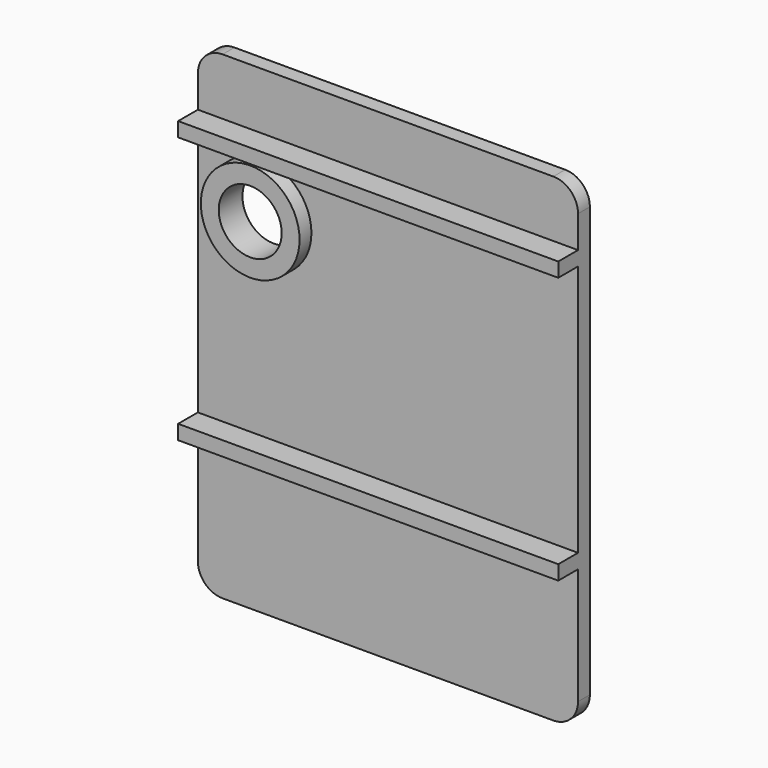
from build123d import *

# Parameters (mm, degrees)
F0_W     = 77
F0_H     = 97
F0_R     = 6.375
F1_DEPTH = 3
F2_R     = 10
F2_R_2   = 6.375
F3_DEPTH = 3
F4_W     = 77
F4_H     = 2.929018
F5_DEPTH = 5
F6_R     = 5


with BuildPart() as f1:
    # F0 (on Front) → F1 (new body)
    with BuildSketch(Plane.XZ):
        Rectangle(F0_W, F0_H)
        with Locations((-25.5, 22.5)):
            Circle(F0_R, mode=Mode.SUBTRACT)
    extrude(amount=-F1_DEPTH)

    # F2 (on face) → F3 (join)
    with BuildSketch(Plane.XZ):
        with Locations((-25.5, 22.5)):
            Circle(F2_R)
        with Locations((-25.5, 22.5)):
            Circle(F2_R_2, mode=Mode.SUBTRACT)
    extrude(amount=F3_DEPTH)

    # F4 (on face) → F5 (join)
    with BuildSketch(Plane.XZ):
        Polygon((-38.5, 37.005685), (-38.5, 35.700995), (-38.5, 34.099021), (38.5, 34.099021), (38.5, 35.700995), (38.5, 37.005685), align=None)
        with Locations((0, -18.43647)):
            Rectangle(F4_W, F4_H)
    extrude(amount=F5_DEPTH)

    # F6
    f6_edges = [f1.edges().sort_by_distance(p)[0] for p in [
        (38.5, 1.5, 48.5),
        (-38.5, 1.5, 48.5),
        (38.5, 1.5, -48.5),
        (-38.5, 1.5, -48.5),
    ]]
    fillet(f6_edges, radius=F6_R)


solid = f1.part
